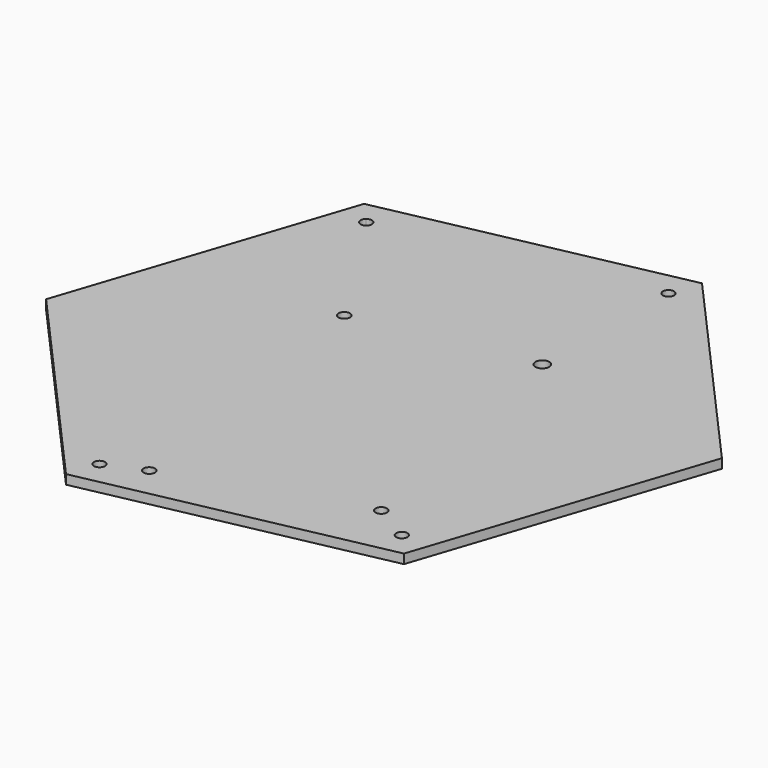
from build123d import *

# Parameters (mm, degrees)
F1_DEPTH = 2.54
F3_DEPTH = 25.4
F4_R     = 1.55
F4_R_2   = 1.884603
F5_DEPTH = 25.4


with BuildPart() as f1:
    # F0 (on Top) → F1 (new body)
    with BuildSketch(Plane.XY):
        Polygon((25.3638, 76.552555), (-53.614557, 60.241973), (-78.978357, -16.310582), (-25.3638, -76.552555), (53.614557, -60.241973), (78.978357, 16.310582), align=None)
    extrude(amount=F1_DEPTH)

    # F2 (on face) → F3 (cut)
    with BuildSketch(Plane.XY.offset(2.54)):
        with BuildLine():
            ThreePointArc((24.21445, 68.483899), (23.925977, 69.376115), (23.169766, 69.930562))
            ThreePointArc((23.169766, 69.930562), (21.454923, 67.591684), (24.21445, 68.483899))
        make_face()
        with BuildLine():
            ThreePointArc((-46.439572, 53.892456), (-47.339682, 55.282901), (-48.97676, 55.030887))
            ThreePointArc((-48.97676, 55.030887), (-48.587461, 52.502011), (-46.439572, 53.892456))
        make_face()
        with BuildLine():
            ThreePointArc((-21.16645, -68.483899), (-23.582666, -67.248373), (-23.169766, -69.930562))
            ThreePointArc((-23.169766, -69.930562), (-21.798234, -69.719426), (-21.16645, -68.483899))
        make_face()
        with BuildLine():
            ThreePointArc((49.487572, -53.892456), (46.573126, -53.268566), (48.97676, -55.030887))
            ThreePointArc((48.97676, -55.030887), (49.354017, -54.516346), (49.487572, -53.892456))
        make_face()
    extrude(amount=-F3_DEPTH, mode=Mode.SUBTRACT)

    # F4 (on face) → F5 (cut)
    with BuildSketch(Plane.XY.offset(2.54)):
        with Locations((37.449616, -47.753262)):
            Circle(F4_R)
        with Locations((-12.550384, -64.205859)):
            Circle(F4_R)
        with Locations((22.179618, 26.186424)):
            Circle(F4_R_2)
        with Locations((-24.820382, 17.501104)):
            Circle(F4_R)
    extrude(amount=-F5_DEPTH, mode=Mode.SUBTRACT)


solid = f1.part
